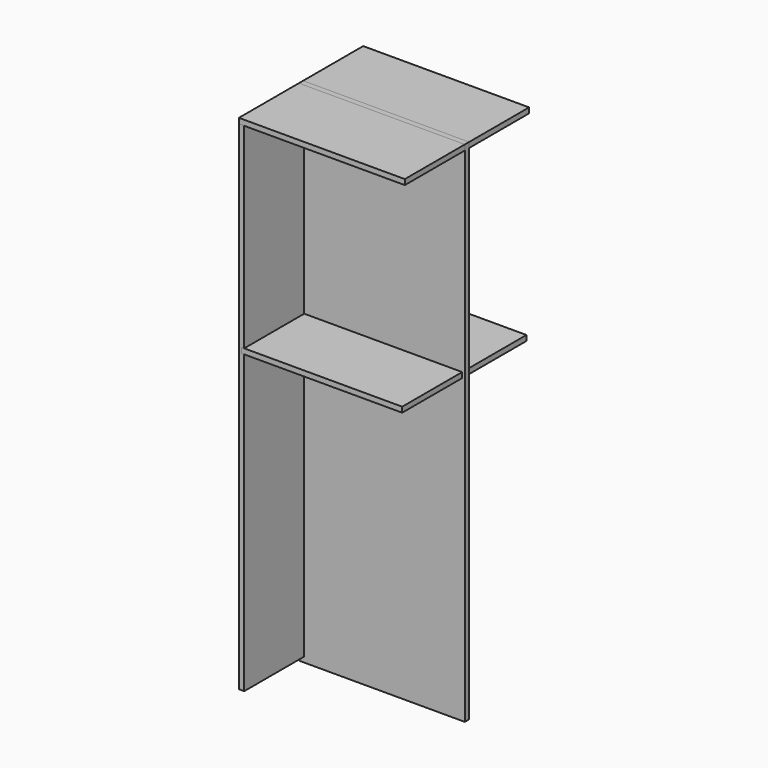
from build123d import *

# Parameters (mm, degrees)
F2_DEPTH      = 279.4
F3_DEPTH      = 279.4
F3_DEPTH_BACK = 279.4
F1_W          = 558.8
F1_H          = 19.05
F1_W_2        = 9.525
F4_DEPTH      = 279.4
F4_DEPTH_BACK = 279.4
F1_H_2        = 1066.8
F1_H_3        = 704.85
F5_DEPTH      = 9.525


with BuildPart() as f2:
    # F1 (on Front) → F2 (new body, symmetric)
    with BuildSketch(Plane.XZ):
        Polygon((-279.4, 895.35), (-298.45, 895.35), (-298.45, -895.35), (-279.4, -895.35), (-279.4, 171.45), (-288.925, 171.45), (-288.925, 190.5), (-279.4, 190.5), align=None)
    extrude(amount=F2_DEPTH, both=True)


with BuildPart() as f3:
    # F1 (on Front) → F3 (new body, two sides)
    with BuildSketch(Plane.XZ) as f3_sk:
        Polygon((-298.45, 914.4), (-298.45, 895.35), (-279.4, 895.35), (279.4, 895.35), (298.45, 895.35), (298.45, 914.4), align=None)
    extrude(amount=F3_DEPTH)
    extrude(f3_sk.sketch, amount=-F3_DEPTH_BACK)


with BuildPart() as f4:
    # F1 (on Front) → F4 (new body, two sides)
    with BuildSketch(Plane.XZ) as f4_sk:
        with Locations((0, 180.975)):
            Rectangle(F1_W, F1_H)
        with Locations((-284.1625, 180.975)):
            Rectangle(F1_W_2, F1_H)
        with Locations((284.1625, 180.975)):
            Rectangle(F1_W_2, F1_H)
    extrude(amount=F4_DEPTH)
    extrude(f4_sk.sketch, amount=-F4_DEPTH_BACK)


with BuildPart() as f5:
    # F1 (on Front) → F5 (new body, symmetric)
    with BuildSketch(Plane.XZ):
        with Locations((284.1625, 180.975)):
            Rectangle(F1_W_2, F1_H)
        with Locations((0, 180.975)):
            Rectangle(F1_W, F1_H)
        with Locations((-284.1625, 180.975)):
            Rectangle(F1_W_2, F1_H)
        Polygon((-279.4, -895.35), (-298.45, -895.35), (-298.45, -914.4), (298.45, -914.4), (298.45, -895.35), (279.4, -895.35), align=None)
        Polygon((-298.45, 914.4), (-298.45, 895.35), (-279.4, 895.35), (279.4, 895.35), (298.45, 895.35), (298.45, 914.4), align=None)
        Polygon((-279.4, 895.35), (-298.45, 895.35), (-298.45, -895.35), (-279.4, -895.35), (-279.4, 171.45), (-288.925, 171.45), (-288.925, 190.5), (-279.4, 190.5), align=None)
        Polygon((298.45, 895.35), (279.4, 895.35), (279.4, 190.5), (288.925, 190.5), (288.925, 171.45), (279.4, 171.45), (279.4, -895.35), (298.45, -895.35), align=None)
        with Locations((0, -361.95)):
            Rectangle(F1_W, F1_H_2)
        with Locations((0, 542.925)):
            Rectangle(F1_W, F1_H_3)
    extrude(amount=F5_DEPTH, both=True)


solid = Compound([f2.part, f3.part, f4.part, f5.part])
